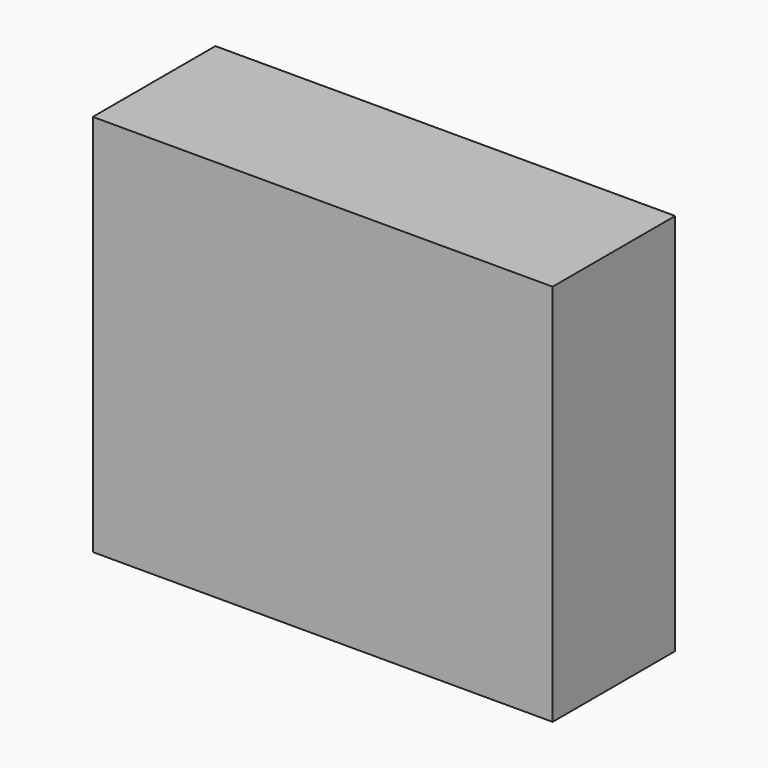
from build123d import *

# Parameters (mm, degrees)
F0_W     = 152.4
F0_H     = 127
F1_DEPTH = 25.4
F3_D     = 6.35
F3_DEPTH = 25.401


with BuildPart() as f1:
    # F0 (on Front) → F1 (new body, symmetric)
    with BuildSketch(Plane.XZ):
        Rectangle(F0_W, F0_H)
    extrude(amount=F1_DEPTH, both=True)

    # F3 (through all, one way)
    with BuildSketch(Plane.XZ):
        with Locations((-63.5, 50.8), (-38.1, 50.8), (-63.5, 25.4), (-38.1, 25.4), (-12.7, 50.8), (-12.7, 25.4), (12.7, 50.8), (38.1, 50.8), (63.5, 50.8), (63.5, 25.4), (38.1, 25.4), (12.7, 25.4), (-63.5, 0), (-38.1, 0), (-12.7, 0), (12.7, 0), (38.1, 0), (63.5, 0), (63.5, -25.4), (63.5, -50.8), (38.1, -50.8), (38.1, -25.4), (12.7, -25.4), (12.7, -50.8), (-12.7, -50.8), (-12.7, -25.4), (-38.1, -25.4), (-38.1, -50.8), (-63.5, -50.8), (-63.5, -25.4)):
            Circle(F3_D / 2)
    extrude(amount=-F3_DEPTH, mode=Mode.SUBTRACT)


solid = f1.part
